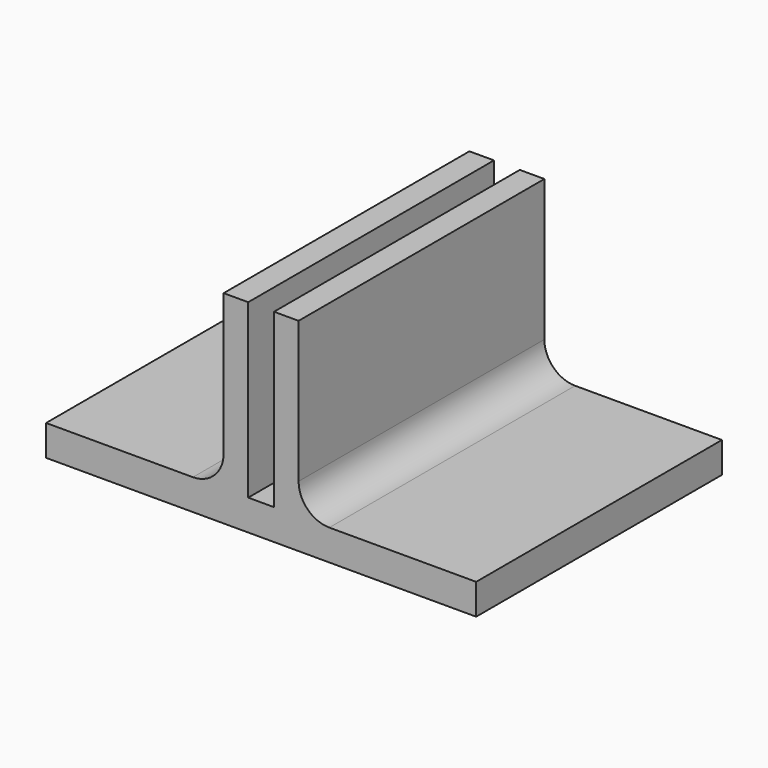
from build123d import *

# Parameters (mm, degrees)
F0_W     = 70
F0_H     = 50
F1_DEPTH = 5
F2_W     = 4
F2_H     = 50
F3_DEPTH = 28
F4_R     = 5


with BuildPart() as f1:
    # F0 (on Top) → F1 (new body)
    with BuildSketch(Plane.XY):
        Rectangle(F0_W, F0_H)
    extrude(amount=F1_DEPTH)

    # F2 (on face) → F3 (join)
    with BuildSketch(Plane.XY.offset(5)):
        with Locations((-4.1, 0)):
            Rectangle(F2_W, F2_H)
        with Locations((4.1, 0)):
            Rectangle(F2_W, F2_H)
    extrude(amount=F3_DEPTH)

    # F4
    f4_edges = [f1.edges().sort_by_distance(p)[0] for p in [
        (-6.1, 0, 5),
        (6.1, 0, 5),
    ]]
    fillet(f4_edges, radius=F4_R)


solid = f1.part
